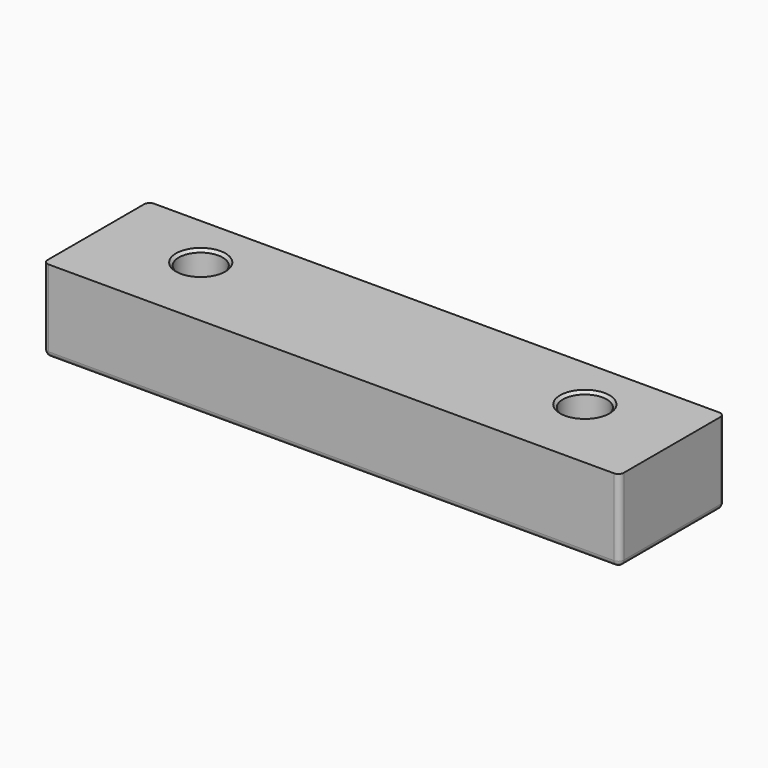
from build123d import *

# Parameters (mm, degrees)
SKETCH006_W     = 105
SKETCH006_H     = 24
SKETCH006_R     = 4
PAD005_DEPTH    = 15
CHAMFER002_SIZE = 0.5
FILLET003_R     = 1


with BuildPart() as part:
    # Sketch006 → Pad005 (new body)
    with BuildSketch(Plane(origin=(100, 100, 0), x_dir=(1, 0, 0), z_dir=(0, 0, 1))):
        with Locations((0, 12)):
            Rectangle(SKETCH006_W, SKETCH006_H)
        with Locations((-35, 14)):
            Circle(SKETCH006_R, mode=Mode.SUBTRACT)
        with Locations((35, 14)):
            Circle(SKETCH006_R, mode=Mode.SUBTRACT)
    extrude(amount=PAD005_DEPTH)

    # Chamfer002
    chamfer002_edges = [part.edges().sort_by_distance(p)[0] for p in [
        (61, 114, 0),
        (131, 114, 0),
        (131, 114, 15),
        (61, 114, 15),
    ]]
    chamfer(chamfer002_edges, length=CHAMFER002_SIZE)

    # Fillet003
    fillet003_edges = [part.edges().sort_by_distance(p)[0] for p in [
        (152.5, 100, 7.5),
        (152.5, 124, 7.5),
        (152.5, 112, 0),
        (100, 100, 0),
        (100, 124, 0),
        (47.5, 100, 7.5),
        (47.5, 124, 7.5),
        (47.5, 112, 0),
    ]]
    fillet(fillet003_edges, radius=FILLET003_R)


solid = part.part
